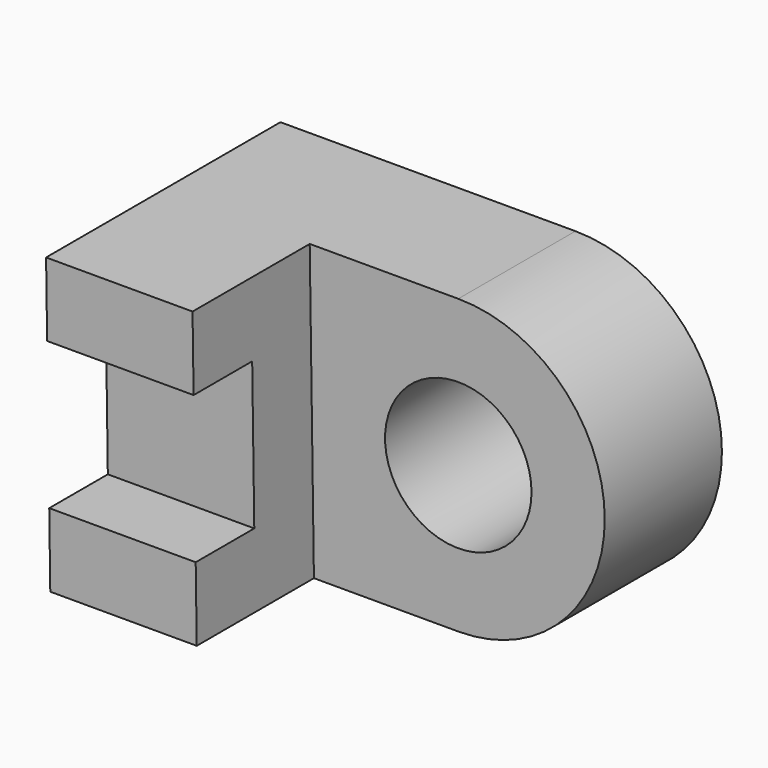
from build123d import *

# Parameters (mm, degrees)
F1_DEPTH = 25.4
F3_DEPTH = 12.7
F5_DEPTH = 6.35
F6_R     = 6.35
F7_DEPTH = 12.7


with BuildPart() as f1:
    # F0 (on Front) → F1 (new body)
    with BuildSketch(Plane.XZ):
        Polygon((0, 25.2785402277), (0.3643797245, -0.1214597723), (38.4643797245, -0.1214597723), (38.4643797245, 25.2785402277), align=None)
    extrude(amount=F1_DEPTH)

    # F2 (on face) → F3 (cut)
    with BuildSketch(Plane.XZ.offset(25.4)):
        Polygon((38.4643797245, 25.2785402277), (12.7, 25.2785402277), (13.0643797245, -0.1214597723), (38.4643797245, -0.1214597723), align=None)
    extrude(amount=-F3_DEPTH, mode=Mode.SUBTRACT)

    # F4 (on face) → F5 (cut)
    with BuildSketch(Plane.XZ.offset(25.4)):
        Polygon((12.973256677, 6.2305001503), (12.791085559, 18.9291935352), (0.091085559, 18.9291935352), (0.273256677, 6.2305001503), align=None)
    extrude(amount=-F5_DEPTH, mode=Mode.SUBTRACT)

    # F6 (on face) → F7 (cut, through all)
    with BuildSketch(Plane.XZ.offset(12.7)):
        with Locations((25.5821898622, 12.5785402277)):
            Circle(F6_R)
        with BuildLine():
            ThreePointArc((25.5821898622, 25.2785402277), (38.2821898622, 12.5785402277), (25.5821898622, -0.1214597723))
            Line((25.5821898622, -0.1214597723), (38.4643797245, -0.1214597723))
            Line((38.4643797245, -0.1214597723), (38.4643797245, 25.2785402277))
            Line((38.4643797245, 25.2785402277), (25.5821898622, 25.2785402277))
        make_face()
    extrude(amount=-F7_DEPTH, mode=Mode.SUBTRACT)


solid = f1.part
